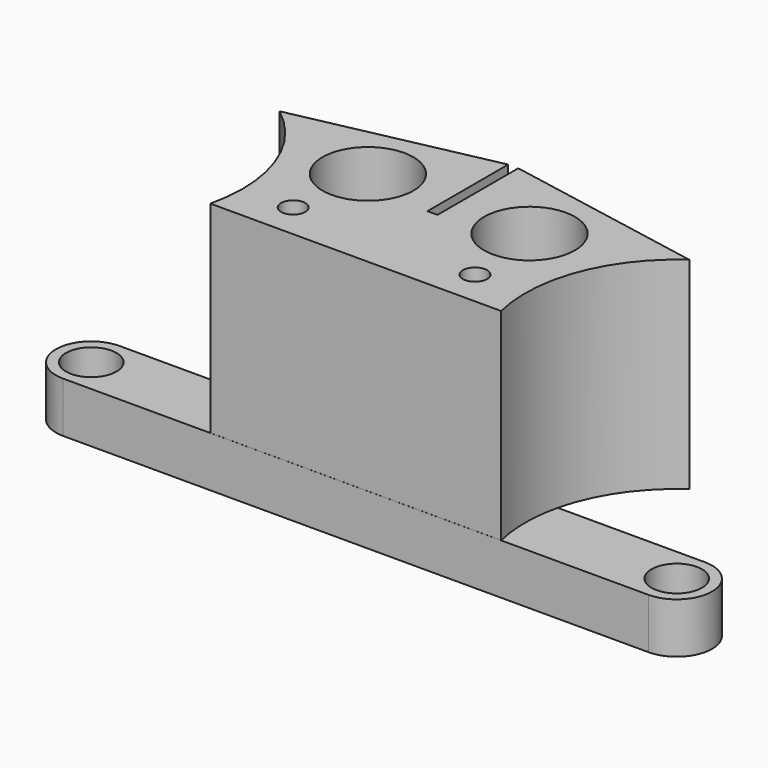
from build123d import *

# Parameters (mm, degrees)
SKETCH_R        = 2.5
PAD_DEPTH       = 5
PAD001_DEPTH    = 20
SKETCH002_R     = 1.2
POCKET_DEPTH    = 10
SKETCH003_R     = 4.5
POCKET001_DEPTH = 25.001


with BuildPart() as part:
    # Sketch → Pad (new body)
    with BuildSketch(Plane.XY):
        with BuildLine():
            ThreePointArc((0, 3.5), (-3.5, 0), (0, -3.5))
            Line((57.98, -3.5), (0, -3.5))
            ThreePointArc((57.98, -3.5), (61.48, 0), (57.98, 3.5))
            Line((0, 3.5), (57.98, 3.5))
        make_face()
        Circle(SKETCH_R, mode=Mode.SUBTRACT)
        with Locations((57.98, 0)):
            Circle(SKETCH_R, mode=Mode.SUBTRACT)
    extrude(amount=PAD_DEPTH)

    # Sketch001 (on Face8 of Pad) → Pad001 (join)
    with BuildSketch(Plane.XY.offset(5)):
        with BuildLine():
            Line((29.489935, 16), (29.489935, 6))
            Line((28.489935, 6), (29.489935, 6))
            Line((28.489935, 6), (28.489935, 15.99995))
            Line((9.108103, 11.918157), (28.489935, 15.99995))
            ThreePointArc((14.587373, -3.494502), (14.133535, 5.024439), (9.108103, 11.918157))
            Line((14.587373, -3.494502), (43.392665, -3.494502))
            ThreePointArc((49.388809, 12.296038), (43.956926, 5.32496), (43.392665, -3.494502))
            Line((29.489935, 16), (49.388809, 12.296038))
        make_face()
    extrude(amount=PAD001_DEPTH)

    # Sketch002 (on Face18 of Pad001) → Pocket (cut)
    with BuildSketch(Plane.XY.offset(25)):
        with Locations((20, 0)):
            Circle(SKETCH002_R)
        with Locations((38, 0)):
            Circle(SKETCH002_R)
    extrude(amount=-POCKET_DEPTH, mode=Mode.SUBTRACT)

    # Sketch003 (on Face18 of Pocket) → Pocket001 (cut, through all)
    with BuildSketch(Plane.XY.offset(25)):
        with Locations((21, 8)):
            Circle(SKETCH003_R)
        with Locations((37, 8)):
            Circle(SKETCH003_R)
    extrude(amount=-POCKET001_DEPTH, mode=Mode.SUBTRACT)


solid = part.part
